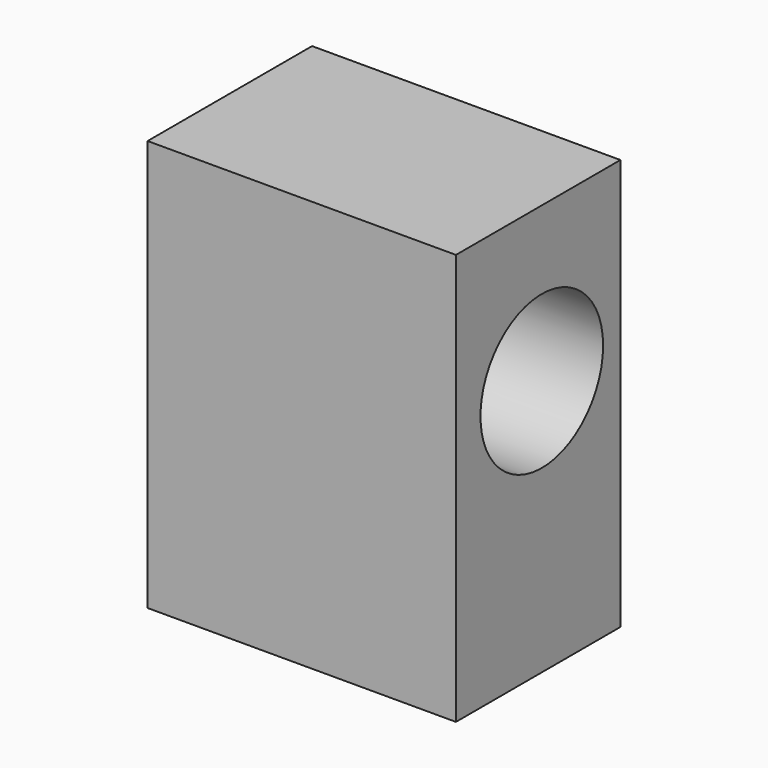
from build123d import *

# Parameters (mm, degrees)
F0_W     = 76.2
F0_H     = 101.6
F1_DEPTH = 50.8
F2_R     = 18.93797
F3_DEPTH = 76.2


with BuildPart() as f1:
    # F0 (on Front) → F1 (new body)
    with BuildSketch(Plane.XZ):
        with Locations((38.1, 50.8)):
            Rectangle(F0_W, F0_H)
    extrude(amount=-F1_DEPTH)

    # F2 (on face) → F3 (cut, through all)
    with BuildSketch(Plane.YZ.offset(76.2)):
        with Locations((26.51934, 63.392535)):
            Circle(F2_R)
    extrude(amount=-F3_DEPTH, mode=Mode.SUBTRACT)


solid = f1.part
